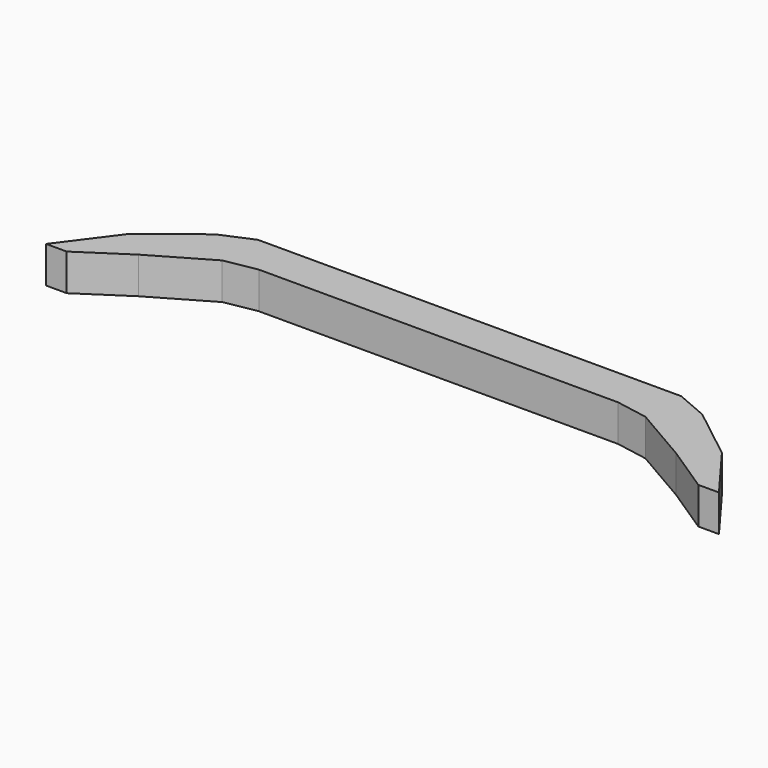
from build123d import *

# Parameters (mm, degrees)
F0_W     = 24.8743314296
F0_H     = 5.394872278
F1_DEPTH = 5.08


with BuildPart() as f1:
    # F0 (on Top) → F1 (new body)
    with BuildSketch(Plane.XY):
        with Locations((-12.4371657148, 25.8406065404)):
            Rectangle(F0_W, F0_H)
        with Locations((12.4371657148, 25.8406065404)):
            Rectangle(F0_W, F0_H)
        Polygon((-24.8743314296, 23.1431704015), (-24.8743314296, 28.5380426794), (-29.3171685189, 28.5380426794), (-33.7600037456, 26.6339704394), (-41.0589501262, 20.9217518568), (-46.6124974191, 13.4641341865), (-43.7563844025, 13.4641341865), (-37.2508056462, 17.7482981235), (-29.3171685189, 22.3498065025), align=None)
        Polygon((29.3171685189, 28.5380426794), (24.8743314296, 28.5380426794), (24.8743314296, 23.1431704015), (29.3171685189, 22.3498065025), (37.2508056462, 17.7482981235), (43.7563844025, 13.4641341865), (46.6124974191, 13.4641341865), (41.0589501262, 20.9217518568), (33.7600037456, 26.6339704394), align=None)
    extrude(amount=F1_DEPTH)


solid = f1.part
